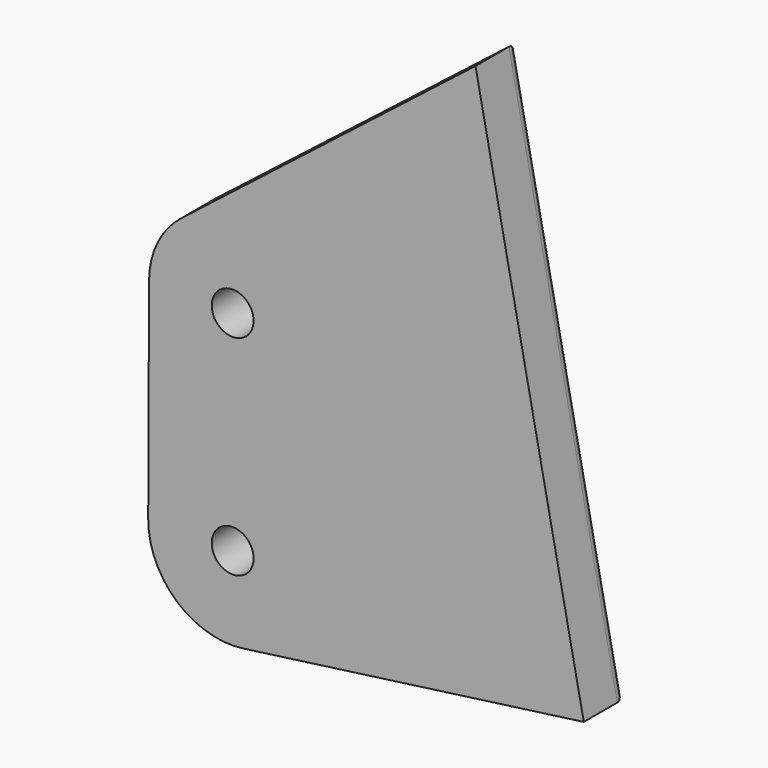
from build123d import *

# Parameters (mm, degrees)
PAD005_DEPTH    = 2.5
SKETCH012_R     = 1
POCKET003_DEPTH = 3
FILLET001_R     = 0.5


with BuildPart() as part:
    # Sketch008 → Pad005 (new body)
    with BuildSketch(Plane(origin=(43, -2, 9), x_dir=(1, 0, 0), z_dir=(0, 1, 0))):
        with BuildLine():
            Line((71.611134, -34.180398), (57.540096, -23.19394))
            ThreePointArc((56.001794, -20.057013), (56.410347, -21.802308), (57.540096, -23.19394))
            Line((56.001794, -20.057013), (55.961984, -10.029935))
            ThreePointArc((60.498458, -6.050197), (57.324061, -7.007141), (55.961984, -10.029935))
            Line((60.498458, -6.050197), (76.788718, -8.255072))
            Line((76.788718, -8.255072), (71.611134, -34.180398))
        make_face()
    extrude(amount=PAD005_DEPTH)

    # Sketch012 → Pocket003 (cut)
    with BuildSketch(Plane(origin=(43, 0.5, 9), x_dir=(1, 0, 0), z_dir=(0, 1, 0))):
        with Locations((60, -20)):
            Circle(SKETCH012_R)
        with Locations((60, -10)):
            Circle(SKETCH012_R)
    extrude(amount=-POCKET003_DEPTH, mode=Mode.SUBTRACT)

    # Fillet001
    fillet001_edges = [part.edges().sort_by_distance(p)[0] for p in [
        (111.643588, 0.5, 16.152635),
        (100.324061, 0.5, 16.007141),
        (117.199926, 0.5, 30.217735),
        (98.981889, 0.5, 24.043474),
        (107.575615, 0.5, 37.687169),
        (99.410347, 0.5, 30.802308),
        (102, 0.5, 29),
        (102, 0.5, 19),
    ]]
    fillet(fillet001_edges, radius=FILLET001_R)


solid = part.part
